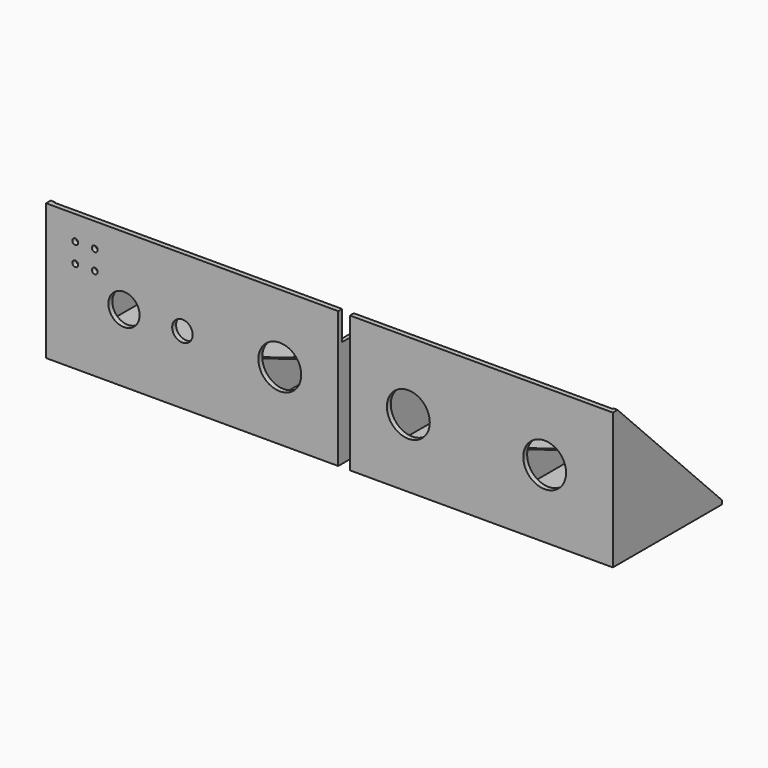
from build123d import *

# Parameters (mm, degrees)
SKETCH_R         = 8
SKETCH_R_2       = 5.25
SKETCH_R_3       = 11
SKETCH_R_4       = 1.5
PAD_DEPTH        = 2.5
PAD001_DEPTH     = 67.5
SKETCH003_R      = 0.8
HOLE_DEPTH       = 25
HOLE_TIPS_R      = 0.8
SKETCH004_R      = 1
HOLE001_DEPTH    = 25
CHAMFER_SIZE2    = 53
CHAMFER_SIZE     = 58
CHAMFER001_SIZE2 = 67
CHAMFER001_SIZE  = 28
CHAMFER002_SIZE2 = 67
CHAMFER002_SIZE  = 68
POCKET_DEPTH     = 150
SKETCH005_R      = 8
SKETCH005_R_2    = 5.25
SKETCH005_R_3    = 11
SKETCH005_R_4    = 1.5
PAD002_DEPTH     = 2.5
PAD003_DEPTH     = 67.5
SKETCH007_R      = 0.8
HOLE002_DEPTH    = 25
HOLE002_TIPS_R   = 0.8
SKETCH008_R      = 1
HOLE003_DEPTH    = 25
CHAMFER005_SIZE2 = 53
CHAMFER005_SIZE  = 58
CHAMFER004_SIZE2 = 67
CHAMFER004_SIZE  = 28
CHAMFER003_SIZE2 = 67
CHAMFER003_SIZE  = 68
POCKET001_DEPTH  = 135


with BuildPart() as obj1:
    # Sketch → Pad (new body)
    with BuildSketch(Plane.XZ):
        Polygon((0, 0), (215, 0), (285, 0), (285, 70), (215, 70), (0, 70), align=None)
        with Locations((40, 35)):
            Circle(SKETCH_R, mode=Mode.SUBTRACT)
        with Locations((70, 35)):
            Circle(SKETCH_R_2, mode=Mode.SUBTRACT)
        with Locations((120, 35)):
            Circle(SKETCH_R_3, mode=Mode.SUBTRACT)
        with Locations((180, 35)):
            Circle(SKETCH_R_3, mode=Mode.SUBTRACT)
        with Locations((250, 35)):
            Circle(SKETCH_R_3, mode=Mode.SUBTRACT)
        with Locations((15, 57.5)):
            Circle(SKETCH_R_4, mode=Mode.SUBTRACT)
        with Locations((25, 57.5)):
            Circle(SKETCH_R_4, mode=Mode.SUBTRACT)
        with Locations((15, 47.5)):
            Circle(SKETCH_R_4, mode=Mode.SUBTRACT)
        with Locations((25, 47.5)):
            Circle(SKETCH_R_4, mode=Mode.SUBTRACT)
    extrude(amount=PAD_DEPTH)

    # Sketch001 (on Face16 of Pad) → Pad001 (join)
    with BuildSketch(Plane(origin=(0, 0, 0), x_dir=(1, 0, 0), z_dir=(0, 1, 0))):
        Polygon((0, 0), (0, -70), (2, -70), (2, -2), (94, -2), (94, -30), (96, -30), (96, -2), (148, -2), (148, -55), (152, -55), (152, -2), (214, -2), (214, -30), (216, -30), (216, -2), (283, -2), (283, -70), (285, -70), (285, 0), align=None)
    extrude(amount=PAD001_DEPTH)

    # Sketch003 → Hole (cut)
    with BuildSketch(Plane(origin=(0, 0, 0), x_dir=(1, 0, 0), z_dir=(0, 0, -1))):
        with Locations((10, -10)):
            Circle(SKETCH003_R)
        with Locations((10, -57.5)):
            Circle(SKETCH003_R)
        with Locations((80, -57.5)):
            Circle(SKETCH003_R)
        with Locations((45, -33.75)):
            Circle(SKETCH003_R)
        with Locations((80, -10)):
            Circle(SKETCH003_R)
        with Locations((145, -33.75)):
            Circle(SKETCH003_R)
        with Locations((205, -57.5)):
            Circle(SKETCH003_R)
        with Locations((205, -10)):
            Circle(SKETCH003_R)
        with Locations((125, -10)):
            Circle(SKETCH003_R)
        with Locations((165, -10)):
            Circle(SKETCH003_R)
        with Locations((275, -10)):
            Circle(SKETCH003_R)
        with Locations((275, -57.5)):
            Circle(SKETCH003_R)
    extrude(amount=-HOLE_DEPTH, mode=Mode.SUBTRACT)

    # Hole tips → Hole tip 1 section 0
    with BuildSketch(Plane(origin=(0, 0, 25), x_dir=(1, 0, 0), z_dir=(0, 0, -1)), mode=Mode.PRIVATE) as hole_tip_1_s0:
        with Locations((10, -10)):
            Circle(HOLE_TIPS_R)
    loft([hole_tip_1_s0.sketch, Vertex(10, 10, 25.480688)], mode=Mode.SUBTRACT)

    # Hole tips → Hole tip 2 section 0
    with BuildSketch(Plane(origin=(0, 0, 25), x_dir=(1, 0, 0), z_dir=(0, 0, -1)), mode=Mode.PRIVATE) as hole_tip_2_s0:
        with Locations((10, -57.5)):
            Circle(HOLE_TIPS_R)
    loft([hole_tip_2_s0.sketch, Vertex(10, 57.5, 25.480688)], mode=Mode.SUBTRACT)

    # Hole tips → Hole tip 3 section 0
    with BuildSketch(Plane(origin=(0, 0, 25), x_dir=(1, 0, 0), z_dir=(0, 0, -1)), mode=Mode.PRIVATE) as hole_tip_3_s0:
        with Locations((80, -57.5)):
            Circle(HOLE_TIPS_R)
    loft([hole_tip_3_s0.sketch, Vertex(80, 57.5, 25.480688)], mode=Mode.SUBTRACT)

    # Hole tips → Hole tip 4 section 0
    with BuildSketch(Plane(origin=(0, 0, 25), x_dir=(1, 0, 0), z_dir=(0, 0, -1)), mode=Mode.PRIVATE) as hole_tip_4_s0:
        with Locations((45, -33.75)):
            Circle(HOLE_TIPS_R)
    loft([hole_tip_4_s0.sketch, Vertex(45, 33.75, 25.480688)], mode=Mode.SUBTRACT)

    # Hole tips → Hole tip 5 section 0
    with BuildSketch(Plane(origin=(0, 0, 25), x_dir=(1, 0, 0), z_dir=(0, 0, -1)), mode=Mode.PRIVATE) as hole_tip_5_s0:
        with Locations((80, -10)):
            Circle(HOLE_TIPS_R)
    loft([hole_tip_5_s0.sketch, Vertex(80, 10, 25.480688)], mode=Mode.SUBTRACT)

    # Hole tips → Hole tip 6 section 0
    with BuildSketch(Plane(origin=(0, 0, 25), x_dir=(1, 0, 0), z_dir=(0, 0, -1)), mode=Mode.PRIVATE) as hole_tip_6_s0:
        with Locations((145, -33.75)):
            Circle(HOLE_TIPS_R)
    loft([hole_tip_6_s0.sketch, Vertex(145, 33.75, 25.480688)], mode=Mode.SUBTRACT)

    # Hole tips → Hole tip 7 section 0
    with BuildSketch(Plane(origin=(0, 0, 25), x_dir=(1, 0, 0), z_dir=(0, 0, -1)), mode=Mode.PRIVATE) as hole_tip_7_s0:
        with Locations((205, -57.5)):
            Circle(HOLE_TIPS_R)
    loft([hole_tip_7_s0.sketch, Vertex(205, 57.5, 25.480688)], mode=Mode.SUBTRACT)

    # Hole tips → Hole tip 8 section 0
    with BuildSketch(Plane(origin=(0, 0, 25), x_dir=(1, 0, 0), z_dir=(0, 0, -1)), mode=Mode.PRIVATE) as hole_tip_8_s0:
        with Locations((205, -10)):
            Circle(HOLE_TIPS_R)
    loft([hole_tip_8_s0.sketch, Vertex(205, 10, 25.480688)], mode=Mode.SUBTRACT)

    # Hole tips → Hole tip 9 section 0
    with BuildSketch(Plane(origin=(0, 0, 25), x_dir=(1, 0, 0), z_dir=(0, 0, -1)), mode=Mode.PRIVATE) as hole_tip_9_s0:
        with Locations((125, -10)):
            Circle(HOLE_TIPS_R)
    loft([hole_tip_9_s0.sketch, Vertex(125, 10, 25.480688)], mode=Mode.SUBTRACT)

    # Hole tips → Hole tip 10 section 0
    with BuildSketch(Plane(origin=(0, 0, 25), x_dir=(1, 0, 0), z_dir=(0, 0, -1)), mode=Mode.PRIVATE) as hole_tip_10_s0:
        with Locations((165, -10)):
            Circle(HOLE_TIPS_R)
    loft([hole_tip_10_s0.sketch, Vertex(165, 10, 25.480688)], mode=Mode.SUBTRACT)

    # Hole tips → Hole tip 11 section 0
    with BuildSketch(Plane(origin=(0, 0, 25), x_dir=(1, 0, 0), z_dir=(0, 0, -1)), mode=Mode.PRIVATE) as hole_tip_11_s0:
        with Locations((275, -10)):
            Circle(HOLE_TIPS_R)
    loft([hole_tip_11_s0.sketch, Vertex(275, 10, 25.480688)], mode=Mode.SUBTRACT)

    # Hole tips → Hole tip 12 section 0
    with BuildSketch(Plane(origin=(0, 0, 25), x_dir=(1, 0, 0), z_dir=(0, 0, -1)), mode=Mode.PRIVATE) as hole_tip_12_s0:
        with Locations((275, -57.5)):
            Circle(HOLE_TIPS_R)
    loft([hole_tip_12_s0.sketch, Vertex(275, 57.5, 25.480688)], mode=Mode.SUBTRACT)

    # Sketch004 → Hole001 (cut)
    with BuildSketch(Plane(origin=(152, 0, 0), x_dir=(0, 0, 1), z_dir=(1, 0, 0))):
        with Locations((47.5, -7.5)):
            Circle(SKETCH004_R)
        with Locations((9.5, -7.5)):
            Circle(SKETCH004_R)
    extrude(amount=-HOLE001_DEPTH, mode=Mode.SUBTRACT)

    # Chamfer
    chamfer_edges = [obj1.edges().sort_by_distance(p)[0] for p in [
        (150, 67.5, 55),
    ]]
    chamfer_side = obj1.faces().sort_by_distance((150, 33.75, 55))[0]
    chamfer(chamfer_edges, length=CHAMFER_SIZE, length2=CHAMFER_SIZE2, reference=chamfer_side)

    # Chamfer001
    chamfer001_edges = [obj1.edges().sort_by_distance(p)[0] for p in [
        (215, 67.5, 30),
        (95, 67.5, 30),
    ]]
    chamfer001_side = obj1.faces().sort_by_distance((150, 67.5, 1.706529))[0]
    chamfer(chamfer001_edges, length=CHAMFER001_SIZE, length2=CHAMFER001_SIZE2, reference=chamfer001_side)

    # Chamfer002
    chamfer002_edges = [obj1.edges().sort_by_distance(p)[0] for p in [
        (284, 67.5, 70),
        (1, 67.5, 70),
    ]]
    chamfer002_side = obj1.faces().sort_by_distance((215, 67.5, 1.706529))[0]
    chamfer(chamfer002_edges, length=CHAMFER002_SIZE, length2=CHAMFER002_SIZE2, reference=chamfer002_side)

    # Sketch009 (on Face6 of Chamfer002) → Pocket (cut)
    with BuildSketch(Plane(origin=(0, 0, 0), x_dir=(0, 0, -1), z_dir=(-1, 0, 0))):
        Polygon((-70, 2.5), (0, 2.5), (0, -67.5), (-2, -67.5), (-70, -0.5), align=None)
    extrude(amount=-POCKET_DEPTH, mode=Mode.SUBTRACT)


with BuildPart() as obj2:
    # Sketch005 → Pad002 (new body)
    with BuildSketch(Plane.XZ):
        Polygon((0, 0), (215, 0), (285, 0), (285, 70), (215, 70), (0, 70), align=None)
        with Locations((40, 35)):
            Circle(SKETCH005_R, mode=Mode.SUBTRACT)
        with Locations((70, 35)):
            Circle(SKETCH005_R_2, mode=Mode.SUBTRACT)
        with Locations((120, 35)):
            Circle(SKETCH005_R_3, mode=Mode.SUBTRACT)
        with Locations((180, 35)):
            Circle(SKETCH005_R_3, mode=Mode.SUBTRACT)
        with Locations((250, 35)):
            Circle(SKETCH005_R_3, mode=Mode.SUBTRACT)
        with Locations((15, 57.5)):
            Circle(SKETCH005_R_4, mode=Mode.SUBTRACT)
        with Locations((25, 57.5)):
            Circle(SKETCH005_R_4, mode=Mode.SUBTRACT)
        with Locations((15, 47.5)):
            Circle(SKETCH005_R_4, mode=Mode.SUBTRACT)
        with Locations((25, 47.5)):
            Circle(SKETCH005_R_4, mode=Mode.SUBTRACT)
    extrude(amount=PAD002_DEPTH)

    # Sketch006 (on Face16 of Pad002) → Pad003 (join)
    with BuildSketch(Plane(origin=(0, 0, 0), x_dir=(1, 0, 0), z_dir=(0, 1, 0))):
        Polygon((0, 0), (0, -70), (2, -70), (2, -2), (94, -2), (94, -30), (96, -30), (96, -2), (148, -2), (148, -55), (152, -55), (152, -2), (214, -2), (214, -30), (216, -30), (216, -2), (283, -2), (283, -70), (285, -70), (285, 0), align=None)
    extrude(amount=PAD003_DEPTH)

    # Sketch007 → Hole002 (cut)
    with BuildSketch(Plane(origin=(0, 0, 0), x_dir=(1, 0, 0), z_dir=(0, 0, -1))):
        with Locations((10, -10)):
            Circle(SKETCH007_R)
        with Locations((10, -57.5)):
            Circle(SKETCH007_R)
        with Locations((80, -57.5)):
            Circle(SKETCH007_R)
        with Locations((45, -33.75)):
            Circle(SKETCH007_R)
        with Locations((80, -10)):
            Circle(SKETCH007_R)
        with Locations((145, -33.75)):
            Circle(SKETCH007_R)
        with Locations((205, -57.5)):
            Circle(SKETCH007_R)
        with Locations((205, -10)):
            Circle(SKETCH007_R)
        with Locations((125, -10)):
            Circle(SKETCH007_R)
        with Locations((165, -10)):
            Circle(SKETCH007_R)
        with Locations((275, -10)):
            Circle(SKETCH007_R)
        with Locations((275, -57.5)):
            Circle(SKETCH007_R)
    extrude(amount=-HOLE002_DEPTH, mode=Mode.SUBTRACT)

    # Hole002 tips → Hole002 tip 1 section 0
    with BuildSketch(Plane(origin=(0, 0, 25), x_dir=(1, 0, 0), z_dir=(0, 0, -1)), mode=Mode.PRIVATE) as hole002_tip_1_s0:
        with Locations((10, -10)):
            Circle(HOLE002_TIPS_R)
    loft([hole002_tip_1_s0.sketch, Vertex(10, 10, 25.480688)], mode=Mode.SUBTRACT)

    # Hole002 tips → Hole002 tip 2 section 0
    with BuildSketch(Plane(origin=(0, 0, 25), x_dir=(1, 0, 0), z_dir=(0, 0, -1)), mode=Mode.PRIVATE) as hole002_tip_2_s0:
        with Locations((10, -57.5)):
            Circle(HOLE002_TIPS_R)
    loft([hole002_tip_2_s0.sketch, Vertex(10, 57.5, 25.480688)], mode=Mode.SUBTRACT)

    # Hole002 tips → Hole002 tip 3 section 0
    with BuildSketch(Plane(origin=(0, 0, 25), x_dir=(1, 0, 0), z_dir=(0, 0, -1)), mode=Mode.PRIVATE) as hole002_tip_3_s0:
        with Locations((80, -57.5)):
            Circle(HOLE002_TIPS_R)
    loft([hole002_tip_3_s0.sketch, Vertex(80, 57.5, 25.480688)], mode=Mode.SUBTRACT)

    # Hole002 tips → Hole002 tip 4 section 0
    with BuildSketch(Plane(origin=(0, 0, 25), x_dir=(1, 0, 0), z_dir=(0, 0, -1)), mode=Mode.PRIVATE) as hole002_tip_4_s0:
        with Locations((45, -33.75)):
            Circle(HOLE002_TIPS_R)
    loft([hole002_tip_4_s0.sketch, Vertex(45, 33.75, 25.480688)], mode=Mode.SUBTRACT)

    # Hole002 tips → Hole002 tip 5 section 0
    with BuildSketch(Plane(origin=(0, 0, 25), x_dir=(1, 0, 0), z_dir=(0, 0, -1)), mode=Mode.PRIVATE) as hole002_tip_5_s0:
        with Locations((80, -10)):
            Circle(HOLE002_TIPS_R)
    loft([hole002_tip_5_s0.sketch, Vertex(80, 10, 25.480688)], mode=Mode.SUBTRACT)

    # Hole002 tips → Hole002 tip 6 section 0
    with BuildSketch(Plane(origin=(0, 0, 25), x_dir=(1, 0, 0), z_dir=(0, 0, -1)), mode=Mode.PRIVATE) as hole002_tip_6_s0:
        with Locations((145, -33.75)):
            Circle(HOLE002_TIPS_R)
    loft([hole002_tip_6_s0.sketch, Vertex(145, 33.75, 25.480688)], mode=Mode.SUBTRACT)

    # Hole002 tips → Hole002 tip 7 section 0
    with BuildSketch(Plane(origin=(0, 0, 25), x_dir=(1, 0, 0), z_dir=(0, 0, -1)), mode=Mode.PRIVATE) as hole002_tip_7_s0:
        with Locations((205, -57.5)):
            Circle(HOLE002_TIPS_R)
    loft([hole002_tip_7_s0.sketch, Vertex(205, 57.5, 25.480688)], mode=Mode.SUBTRACT)

    # Hole002 tips → Hole002 tip 8 section 0
    with BuildSketch(Plane(origin=(0, 0, 25), x_dir=(1, 0, 0), z_dir=(0, 0, -1)), mode=Mode.PRIVATE) as hole002_tip_8_s0:
        with Locations((205, -10)):
            Circle(HOLE002_TIPS_R)
    loft([hole002_tip_8_s0.sketch, Vertex(205, 10, 25.480688)], mode=Mode.SUBTRACT)

    # Hole002 tips → Hole002 tip 9 section 0
    with BuildSketch(Plane(origin=(0, 0, 25), x_dir=(1, 0, 0), z_dir=(0, 0, -1)), mode=Mode.PRIVATE) as hole002_tip_9_s0:
        with Locations((125, -10)):
            Circle(HOLE002_TIPS_R)
    loft([hole002_tip_9_s0.sketch, Vertex(125, 10, 25.480688)], mode=Mode.SUBTRACT)

    # Hole002 tips → Hole002 tip 10 section 0
    with BuildSketch(Plane(origin=(0, 0, 25), x_dir=(1, 0, 0), z_dir=(0, 0, -1)), mode=Mode.PRIVATE) as hole002_tip_10_s0:
        with Locations((165, -10)):
            Circle(HOLE002_TIPS_R)
    loft([hole002_tip_10_s0.sketch, Vertex(165, 10, 25.480688)], mode=Mode.SUBTRACT)

    # Hole002 tips → Hole002 tip 11 section 0
    with BuildSketch(Plane(origin=(0, 0, 25), x_dir=(1, 0, 0), z_dir=(0, 0, -1)), mode=Mode.PRIVATE) as hole002_tip_11_s0:
        with Locations((275, -10)):
            Circle(HOLE002_TIPS_R)
    loft([hole002_tip_11_s0.sketch, Vertex(275, 10, 25.480688)], mode=Mode.SUBTRACT)

    # Hole002 tips → Hole002 tip 12 section 0
    with BuildSketch(Plane(origin=(0, 0, 25), x_dir=(1, 0, 0), z_dir=(0, 0, -1)), mode=Mode.PRIVATE) as hole002_tip_12_s0:
        with Locations((275, -57.5)):
            Circle(HOLE002_TIPS_R)
    loft([hole002_tip_12_s0.sketch, Vertex(275, 57.5, 25.480688)], mode=Mode.SUBTRACT)

    # Sketch008 → Hole003 (cut)
    with BuildSketch(Plane(origin=(152, 0, 0), x_dir=(0, 0, 1), z_dir=(1, 0, 0))):
        with Locations((47.5, -7.5)):
            Circle(SKETCH008_R)
        with Locations((9.5, -7.5)):
            Circle(SKETCH008_R)
    extrude(amount=-HOLE003_DEPTH, mode=Mode.SUBTRACT)

    # Chamfer005
    chamfer005_edges = [obj2.edges().sort_by_distance(p)[0] for p in [
        (150, 67.5, 55),
    ]]
    chamfer005_side = obj2.faces().sort_by_distance((150, 33.75, 55))[0]
    chamfer(chamfer005_edges, length=CHAMFER005_SIZE, length2=CHAMFER005_SIZE2, reference=chamfer005_side)

    # Chamfer004
    chamfer004_edges = [obj2.edges().sort_by_distance(p)[0] for p in [
        (215, 67.5, 30),
        (95, 67.5, 30),
    ]]
    chamfer004_side = obj2.faces().sort_by_distance((150, 67.5, 1.706529))[0]
    chamfer(chamfer004_edges, length=CHAMFER004_SIZE, length2=CHAMFER004_SIZE2, reference=chamfer004_side)

    # Chamfer003
    chamfer003_edges = [obj2.edges().sort_by_distance(p)[0] for p in [
        (284, 67.5, 70),
        (1, 67.5, 70),
    ]]
    chamfer003_side = obj2.faces().sort_by_distance((215, 67.5, 1.706529))[0]
    chamfer(chamfer003_edges, length=CHAMFER003_SIZE, length2=CHAMFER003_SIZE2, reference=chamfer003_side)

    # Sketch010 (on Face2 of Chamfer003) → Pocket001 (cut)
    with BuildSketch(Plane(origin=(285, 0, 0), x_dir=(0, 0, 1), z_dir=(1, 0, 0))):
        Polygon((70, -0.5), (2, -67.5), (0, -67.5), (0, 2.5), (70, 2.5), align=None)
    extrude(amount=-POCKET001_DEPTH, mode=Mode.SUBTRACT)


with BuildPart() as obj2_1:
    # Body001 placement: moved
    add(obj2.part.moved(Location((-6, 0, 0))))


solid = Compound([obj1.part, obj2_1.part])
